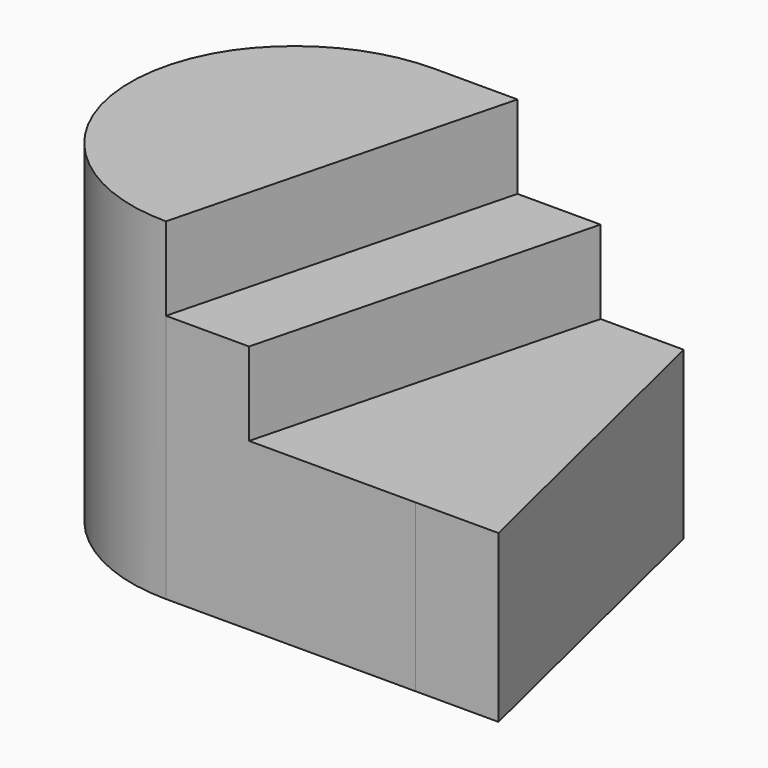
from build123d import *

# Parameters (mm, degrees)
F1_DEPTH = 1016
F3_DEPTH = 254
F6_DEPTH = 508
F7_DEPTH = 25
F8_DEPTH = 100


with BuildPart() as f1:
    # F0 (on Top) → F1 (new body)
    with BuildSketch(Plane.XY):
        with BuildLine():
            Line((762, 513.1272309102), (0, 513.1272309102))
            ThreePointArc((0, 513.1272309102), (-246.0238589032, 453.018466107), (-436.6134349374, 286.2359242663))
            ThreePointArc((-436.6134349374, 286.2359242663), (-522.7640214805, 5.3030259362), (-436.6134349374, -275.629872394))
            ThreePointArc((-436.6134349374, -275.629872394), (-250.137217706, -442.4598438392), (-7.2941860889, -502.7332290138))
            Line((-7.2941860889, -502.7332290138), (754.7058139111, -502.7332290138))
            Line((754.7058139111, -502.7332290138), (1008.7058136281, -502.7452183176))
            Line((1008.7058136281, -502.7452183176), (762, 513.1272309102))
        make_face()
    extrude(amount=F1_DEPTH)

    # F2 (on face) → F3 (cut)
    with BuildSketch(Plane.XY.offset(1016)):
        Polygon((254, 513.1272309102), (-7.2941860889, -502.7332290138), (246.7058139111, -502.7332290138), (508, 513.1272309102), align=None)
    extrude(amount=-F3_DEPTH, mode=Mode.SUBTRACT)

    # F4 (on face) → F6 (cut)
    with BuildSketch(Plane.XY.offset(1016)):
        Polygon((246.7058139111, -502.7332290138), (754.7058139111, -502.7332290138), (1008.7058136281, -502.7452183176), (762, 513.1272309102), (508, 513.1272309102), align=None)
    extrude(amount=-F6_DEPTH, mode=Mode.SUBTRACT)


with BuildPart() as f7:
    # F5 (on face) → F7 (new body)
    with BuildSketch(Plane.XY.offset(1016)):
        Polygon((508, 513.1272309102), (246.7058139111, -502.7332290138), (754.7058139111, -502.7332290138), (1008.7058136281, -502.7452183176), (762, 513.1272309102), align=None)
    extrude(amount=F7_DEPTH)

    # F8 (cut): a face of the model
    f8_faces = [f7.faces().sort_by_distance(p)[0] for p in [
        (630.7450759157, -79.459043637, 1041),
    ]]
    extrude(f8_faces, amount=-F8_DEPTH, mode=Mode.SUBTRACT)


solid = f1.part
